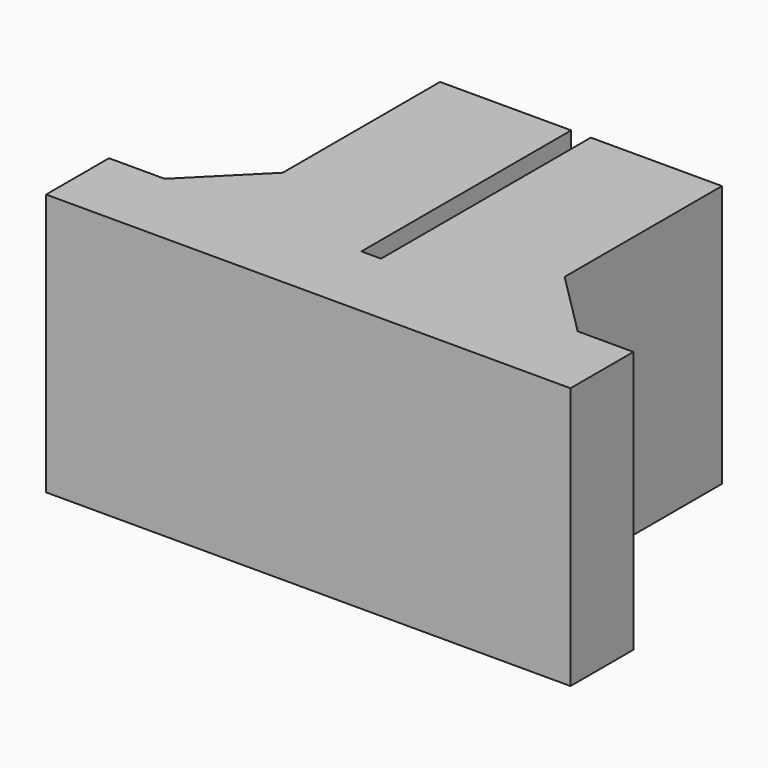
from build123d import *

# Parameters (mm, degrees)
BOX015_W        = 10
BOX015_H        = 20
BOX015_DEPTH    = 20
BOX014_W        = 10
BOX014_H        = 20
BOX014_DEPTH    = 20
BOX016_W        = 40
BOX016_H        = 6
BOX016_DEPTH    = 20
CHAMFER001_SIZE = 5


with BuildPart() as cube015:
    # Box015 → Box015 (new body)
    with BuildSketch(Plane(origin=(-10.75, 0, 0), x_dir=(1, 0, 0), z_dir=(0, 0, 1))):
        with Locations((5, 10)):
            Rectangle(BOX015_W, BOX015_H)
    extrude(amount=BOX015_DEPTH)


with BuildPart() as cube014:
    # Box014 → Box014 (new body)
    with BuildSketch(Plane(origin=(0.75, 0, 0), x_dir=(1, 0, 0), z_dir=(0, 0, 1))):
        with Locations((5, 10)):
            Rectangle(BOX014_W, BOX014_H)
    extrude(amount=BOX014_DEPTH)


with BuildPart() as chamfer001:
    # Box016 → Box016 (new body)
    with BuildSketch(Plane(origin=(-20, -6, 0), x_dir=(1, 0, 0), z_dir=(0, 0, 1))):
        with Locations((20, 3)):
            Rectangle(BOX016_W, BOX016_H)
    extrude(amount=BOX016_DEPTH)

    # Fusion007: union Cube015, Cube014
    add(cube015.part)
    add(cube014.part)

    # Chamfer001
    chamfer001_edges = [chamfer001.edges().sort_by_distance(p)[0] for p in [
        (-10.75, 0, 10),
        (10.75, 0, 10),
    ]]
    chamfer(chamfer001_edges, length=CHAMFER001_SIZE)


solid = chamfer001.part
